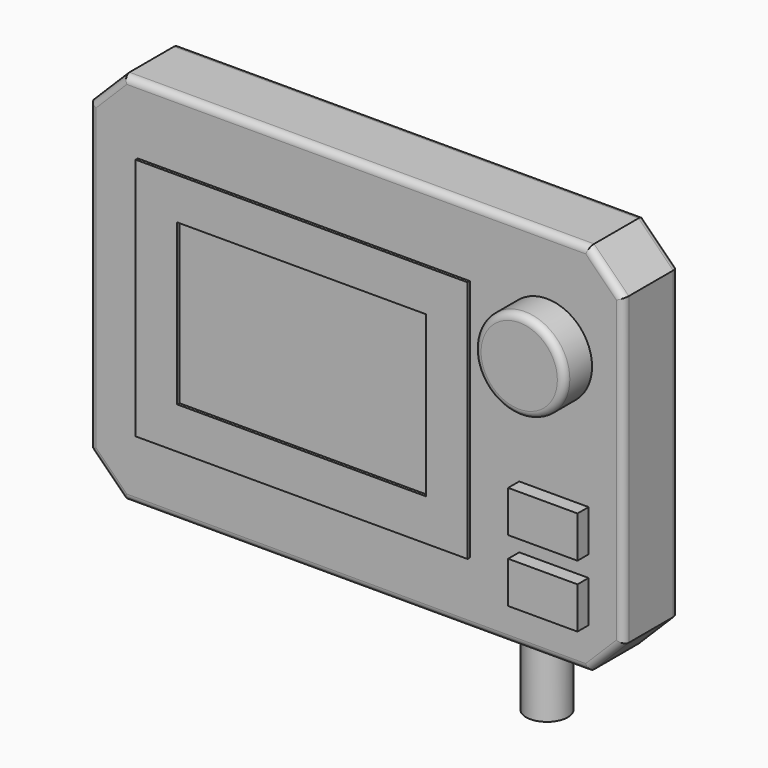
from build123d import *

# Parameters (mm, degrees)
F0_W      = 385
F0_H      = 270
F1_DEPTH  = 50
F2_W      = 239.333302365
F2_H      = 175.5943608609
F2_W_2    = 179.333302365
F2_H_2    = 115.5943608609
F3_DEPTH  = 2
F4_R      = 32.5
F5_DEPTH  = 25
F6_W      = 50
F6_H      = 30
F7_DEPTH  = 10
F8_SIZE   = 25
F9_R      = 5
F10_R     = 15
F11_DEPTH = 50
F13_D     = 4.2
F13_DEPTH = 10
F13_TIP   = 1.2618073
F14_R     = 5


with BuildPart() as f1:
    # F0 (on Front) → F1 (new body)
    with BuildSketch(Plane.XZ):
        with Locations((0, 135)):
            Rectangle(F0_W, F0_H)
    extrude(amount=F1_DEPTH)

    # F2 (on face) → F3 (join)
    with BuildSketch(Plane.XZ.offset(50)):
        with Locations((-37.8333488175, 132.7971804305)):
            Rectangle(F2_W, F2_H)
        with Locations((-37.8333488175, 132.7971804305)):
            Rectangle(F2_W_2, F2_H_2, mode=Mode.SUBTRACT)
    extrude(amount=F3_DEPTH)

    # F4 (on face) → F5 (join)
    with BuildSketch(Plane.XZ.offset(50)):
        with Locations((137.5, 195)):
            Circle(F4_R)
    extrude(amount=F5_DEPTH)

    # F6 (on face) → F7 (join)
    with BuildSketch(Plane.XZ.offset(50)):
        with Locations((142.5, 90)):
            Rectangle(F6_W, F6_H)
        with Locations((142.5, 45)):
            Rectangle(F6_W, F6_H)
    extrude(amount=F7_DEPTH)

    # F8
    f8_edges = [f1.edges().sort_by_distance(p)[0] for p in [
        (192.5, -25, 270),
        (-192.5, -25, 270),
        (-192.5, -25, 0),
        (192.5, -25, 0),
    ]]
    chamfer(f8_edges, length=F8_SIZE)

    # F9
    f9_edges = [f1.edges().sort_by_distance(p)[0] for p in [
        (105, -75, 195),
    ]]
    fillet(f9_edges, radius=F9_R)

    # F10 (on face) → F11 (join)
    with BuildSketch(Plane(origin=(0, 0, 0), x_dir=(1, 0, 0), z_dir=(0, 0, -1))):
        with Locations((117.5, 25)):
            Circle(F10_R)
    extrude(amount=F11_DEPTH)

    # F13
    with Locations(Plane(origin=(0, 0, 0), x_dir=(-1, 0, 0), z_dir=(0, 1, 0))):
        with Locations((-37.5, 175), (37.5, 175), (37.5, 100), (-37.5, 100)):
            Hole(F13_D / 2, depth=F13_DEPTH)
            with Locations((0, 0, -(F13_DEPTH + F13_TIP / 2))):  # 118° drill point
                Cone(0, F13_D / 2, F13_TIP, mode=Mode.SUBTRACT)

    # F14
    f14_edges = [f1.edges().sort_by_distance(p)[0] for p in [
        (0, 0, 270),
        (180, 0, 257.5),
        (192.5, 0, 135),
        (180, 0, 12.5),
        (0, 0, 0),
        (-180, 0, 257.5),
        (-192.5, 0, 135),
        (-180, 0, 12.5),
        (180, -50, 257.5),
        (192.5, -50, 135),
        (180, -50, 12.5),
        (0, -50, 0),
        (-180, -50, 12.5),
        (-192.5, -50, 135),
        (-180, -50, 257.5),
        (0, -50, 270),
    ]]
    fillet(f14_edges, radius=F14_R)


solid = f1.part
